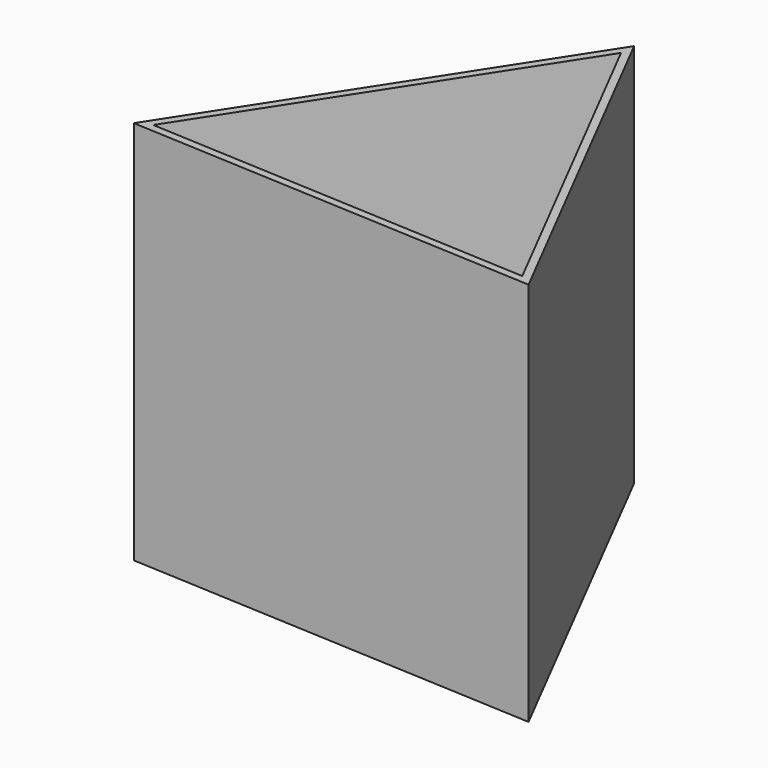
from build123d import *

# Parameters (mm, degrees)
F1_DEPTH = 127
F2_T     = -2.54


with BuildPart() as f1:
    # F0 (on Top) → F1 (new body)
    with BuildSketch(Plane.XY):
        Polygon((65.868032, -42.596363), (3.955517, 78.34157), (-69.823548, -35.745207), align=None)
    extrude(amount=F1_DEPTH)

    # F2
    f2_openings = [f1.faces().sort_by_distance(p)[0] for p in [
        (0, 0, 127),
    ]]
    offset(amount=F2_T, openings=f2_openings)


solid = f1.part
